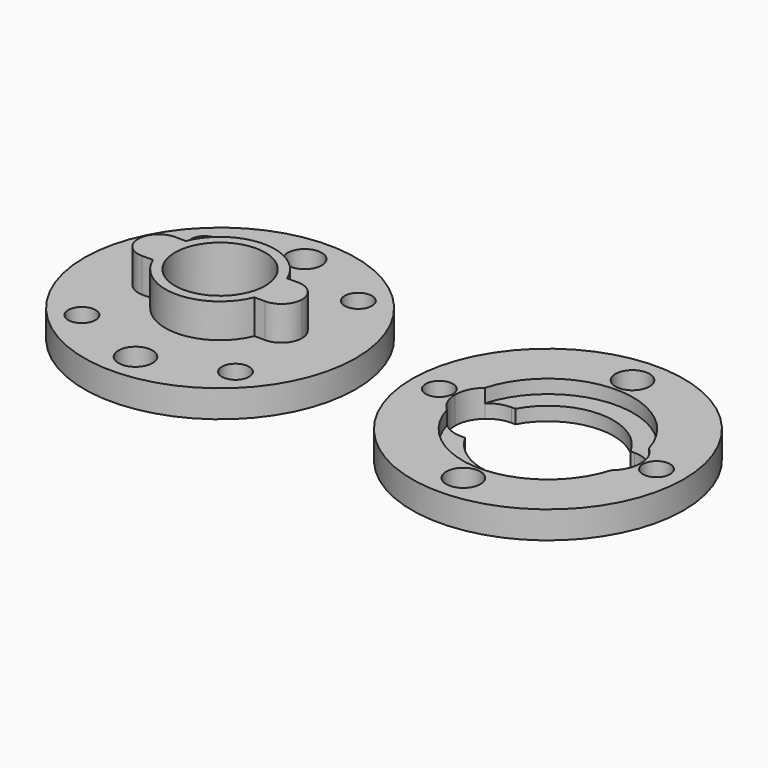
from build123d import *

# Parameters (mm, degrees)
F0_R     = 4.975
F0_R_2   = 0.625
F0_R_3   = 0.5
F1_DEPTH = 1
F0_R_4   = 1.65
F2_DEPTH = 2.25
F3_DEPTH = 1
F4_DEPTH = 0.5


with BuildPart() as f1:
    # F0 (on Top) → F1 (new body)
    with BuildSketch(Plane.XY):
        Circle(F0_R)
        with Locations((0, -3.87)):
            Circle(F0_R_2, mode=Mode.SUBTRACT)
        with Locations((-2.810749, -2.810749)):
            Circle(F0_R_3, mode=Mode.SUBTRACT)
        with Locations((2.810749, -2.810749)):
            Circle(F0_R_3, mode=Mode.SUBTRACT)
        with BuildLine():
            Line((-1.988247, -0.75), (-2.25, -0.75))
            ThreePointArc((-2.25, -0.75), (-2.78033, -0.53033), (-3, 0))
            ThreePointArc((-3, 0), (-2.78033, 0.53033), (-2.25, 0.75))
            Line((-2.25, 0.75), (-1.988247, 0.75))
            Line((-1.988247, 0.75), (-1.85405, 0.75))
            ThreePointArc((-1.85405, 0.75), (0, 2), (1.85405, 0.75))
            Line((1.85405, 0.75), (1.988247, 0.75))
            Line((1.988247, 0.75), (2.25, 0.75))
            ThreePointArc((2.25, 0.75), (2.78033, 0.53033), (3, 0))
            ThreePointArc((3, 0), (2.78033, -0.53033), (2.25, -0.75))
            Line((2.25, -0.75), (1.988247, -0.75))
            Line((1.988247, -0.75), (1.85405, -0.75))
            ThreePointArc((1.85405, -0.75), (0, -2), (-1.85405, -0.75))
            Line((-1.85405, -0.75), (-1.988247, -0.75))
        make_face(mode=Mode.SUBTRACT)
        with Locations((-2.810749, 2.810749)):
            Circle(F0_R_3, mode=Mode.SUBTRACT)
        with Locations((0, 3.87)):
            Circle(F0_R_2, mode=Mode.SUBTRACT)
        with Locations((2.810749, 2.810749)):
            Circle(F0_R_3, mode=Mode.SUBTRACT)
    extrude(amount=F1_DEPTH)

    # F0 (on Top) → F2 (join)
    with BuildSketch(Plane.XY):
        with BuildLine():
            ThreePointArc((2, 0), (1.963173, -0.382035), (1.85405, -0.75))
            Line((1.85405, -0.75), (1.988247, -0.75))
            Line((1.988247, -0.75), (2.25, -0.75))
            ThreePointArc((2.25, -0.75), (2.78033, -0.53033), (3, 0))
            ThreePointArc((3, 0), (2.78033, 0.53033), (2.25, 0.75))
            Line((2.25, 0.75), (1.988247, 0.75))
            Line((1.988247, 0.75), (1.85405, 0.75))
            ThreePointArc((1.85405, 0.75), (1.963173, 0.382035), (2, 0))
        make_face()
        with BuildLine():
            ThreePointArc((-1.85405, 0.75), (-2, 0), (-1.85405, -0.75))
            ThreePointArc((-1.85405, -0.75), (0, -2), (1.85405, -0.75))
            ThreePointArc((1.85405, -0.75), (1.963173, -0.382035), (2, 0))
            ThreePointArc((2, 0), (1.963173, 0.382035), (1.85405, 0.75))
            ThreePointArc((1.85405, 0.75), (0, 2), (-1.85405, 0.75))
        make_face()
        Circle(F0_R_4, mode=Mode.SUBTRACT)
        with BuildLine():
            ThreePointArc((-3, 0), (-2.78033, -0.53033), (-2.25, -0.75))
            Line((-2.25, -0.75), (-1.988247, -0.75))
            Line((-1.988247, -0.75), (-1.85405, -0.75))
            ThreePointArc((-1.85405, -0.75), (-2, 0), (-1.85405, 0.75))
            Line((-1.85405, 0.75), (-1.988247, 0.75))
            Line((-1.988247, 0.75), (-2.25, 0.75))
            ThreePointArc((-2.25, 0.75), (-2.78033, 0.53033), (-3, 0))
        make_face()
        with BuildLine():
            ThreePointArc((-3, 0), (-2.78033, -0.53033), (-2.25, -0.75))
            Line((-2.25, -0.75), (-1.988247, -0.75))
            Line((-1.988247, -0.75), (-1.85405, -0.75))
            ThreePointArc((-1.85405, -0.75), (-2, 0), (-1.85405, 0.75))
            Line((-1.85405, 0.75), (-1.988247, 0.75))
            Line((-1.988247, 0.75), (-2.25, 0.75))
            ThreePointArc((-2.25, 0.75), (-2.78033, 0.53033), (-3, 0))
        make_face()
    extrude(amount=F2_DEPTH)


with BuildPart() as f3:
    # F0 (on Top) → F3 (new body)
    with BuildSketch(Plane.XY):
        with Locations((12, 0)):
            Circle(F0_R)
        with Locations((12, -3.87)):
            Circle(F0_R_2, mode=Mode.SUBTRACT)
        with Locations((8.025, 0)):
            Circle(F0_R_3, mode=Mode.SUBTRACT)
        with BuildLine():
            ThreePointArc((8.99875, 0.870703), (12, 3.125), (15.00125, 0.870703))
            ThreePointArc((15.00125, 0.870703), (15.295571, 0.478833), (15.4, 0))
            ThreePointArc((15.4, 0), (15.295571, -0.478833), (15.00125, -0.870703))
            ThreePointArc((15.00125, -0.870703), (12, -3.125), (8.99875, -0.870703))
            ThreePointArc((8.99875, -0.870703), (8.704429, -0.478833), (8.6, 0))
            ThreePointArc((8.6, 0), (8.704429, 0.478833), (8.99875, 0.870703))
        make_face(mode=Mode.SUBTRACT)
        with Locations((15.975, 0)):
            Circle(F0_R_3, mode=Mode.SUBTRACT)
        with Locations((12, 3.87)):
            Circle(F0_R_2, mode=Mode.SUBTRACT)
    extrude(amount=F3_DEPTH)

    # F0 (on Top) → F4 (join)
    with BuildSketch(Plane.XY):
        with BuildLine():
            ThreePointArc((8.99875, -0.870703), (12, -3.125), (15.00125, -0.870703))
            ThreePointArc((15.00125, -0.870703), (14.650744, -1.077917), (14.25, -1.15))
            Line((14.25, -1.15), (14.106537, -1.15))
            ThreePointArc((14.106537, -1.15), (12, -2.4), (9.893463, -1.15))
            Line((9.893463, -1.15), (9.75, -1.15))
            ThreePointArc((9.75, -1.15), (9.349256, -1.077917), (8.99875, -0.870703))
        make_face()
        with BuildLine():
            ThreePointArc((14.25, 1.15), (14.650744, 1.077917), (15.00125, 0.870703))
            ThreePointArc((15.00125, 0.870703), (12, 3.125), (8.99875, 0.870703))
            ThreePointArc((8.99875, 0.870703), (9.349256, 1.077917), (9.75, 1.15))
            Line((9.75, 1.15), (9.893463, 1.15))
            ThreePointArc((9.893463, 1.15), (12, 2.4), (14.106537, 1.15))
            Line((14.106537, 1.15), (14.25, 1.15))
        make_face()
    extrude(amount=F4_DEPTH)


solid = Compound([f1.part, f3.part])
